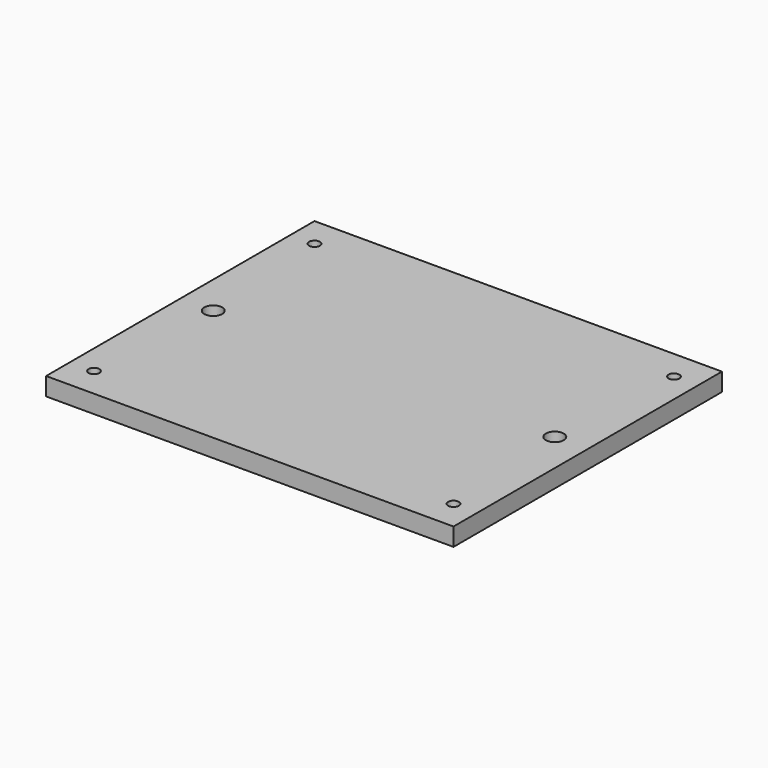
from build123d import *

# Parameters (mm, degrees)
F0_W     = 340
F0_H     = 280
F1_DEPTH = 15
F3_D     = 9
F4_D     = 15


with BuildPart() as f1:
    # F0 (on Top) → F1 (new body)
    with BuildSketch(Plane.XY):
        Rectangle(F0_W, F0_H)
    extrude(amount=F1_DEPTH)

    # F3 (through all)
    with Locations(Plane.XY.offset(15)):
        with Locations((-150, 115), (-150, -115), (150, -115), (150, 115)):
            Hole(F3_D / 2)

    # F4 (through all)
    with Locations(Plane.XY.offset(15)):
        with Locations((142.5, 0), (-142.5, 0)):
            Hole(F4_D / 2)


solid = f1.part
